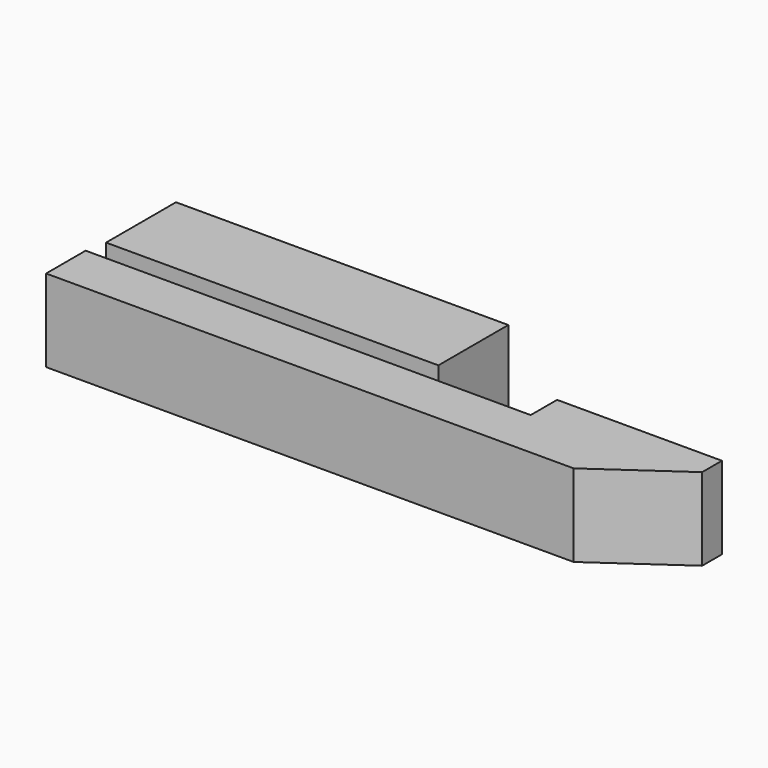
from build123d import *

# Parameters (mm, degrees)
F0_W     = 64.0080049634
F0_H     = 16.8344732374
F1_DEPTH = 9.525
F2_DEPTH = 7.9375
F4_DEPTH = 63.5
F6_DEPTH = 2.3622
F7_R     = 0.79375


with BuildPart() as f1:
    # F0 (on Top) → F1 (new body, symmetric)
    with BuildSketch(Plane.XY):
        Rectangle(F0_W, F0_H)
    extrude(amount=F1_DEPTH, both=True)

    # F3 (on face) → F4 (cut)
    with BuildSketch(Plane(origin=(-34.6662922432, 0, 0), x_dir=(0, -1, 0), z_dir=(-1, 0, 0))):
        with BuildLine():
            ThreePointArc((10.0047366187, 3.0738523386), (9.5991425933, 3.1510271992), (9.1869634092, 3.17491847))
            Line((9.1869634092, 3.17491847), (9.1869634092, -3.17491847))
            ThreePointArc((9.1869634092, -3.17491847), (9.5991425933, -3.1510271992), (10.0047366187, -3.0738523386))
            Line((10.0047366187, -3.0738523386), (10.0047366187, 3.0738523386))
        make_face()
    extrude(amount=-F4_DEPTH, mode=Mode.SUBTRACT)

    # F5 (on face) → F6 (cut)
    with BuildSketch(Plane.XZ.offset(8.4172366187)):
        with BuildLine():
            Line((9.12749, 3.57251), (-9.12749, 3.57251))
            ThreePointArc((-9.12749, 3.57251), (-12.7, 0), (-9.12749, -3.57251))
            Line((-9.12749, -3.57251), (9.12749, -3.57251))
            ThreePointArc((9.12749, -3.57251), (12.7, 0), (9.12749, 3.57251))
        make_face()
    extrude(amount=-F6_DEPTH, mode=Mode.SUBTRACT)

    # F7
    f7_edges = [f1.edges().sort_by_distance(p)[0] for p in [
        (0, -6.055037, 3.57251),
        (-12.7, -6.055037, 0),
        (0, -6.055037, -3.57251),
        (12.7, -6.055037, 0),
        (-12.7, -8.417237, 0),
    ]]
    fillet(f7_edges, radius=F7_R)


with BuildPart() as f2:
    # F0 (on Top) → F2 (new body, symmetric)
    with BuildSketch(Plane.XY):
        Polygon((51.0540024817, -10.0047366187), (-34.6662922432, -10.0047366187), (-34.6662922432, -19.5297366187), (66.9337077568, -19.5297366187), (82.8040024817, -8.4172366187), (82.8040024817, -3.6547366187), (51.0540024817, -3.6547366187), align=None)
    extrude(amount=F2_DEPTH, both=True)


with BuildPart() as f8:
    # F3 (on face) → F8 (revolve)
    with BuildSketch(Plane(origin=(-34.6662922432, 0, 0), x_dir=(0, -1, 0), z_dir=(-1, 0, 0))):
        with BuildLine():
            Line((9.1869634092, -3.17491847), (9.1869634092, 3.17491847))
            ThreePointArc((9.1869634092, 3.17491847), (6.0347166187, 0), (9.1869634092, -3.17491847))
        make_face()
    revolve(axis=Axis((-34.6662922432, -9.1869634092, 0), (0, 0, -1)))


solid = Compound([f1.part, f2.part, f8.part])
